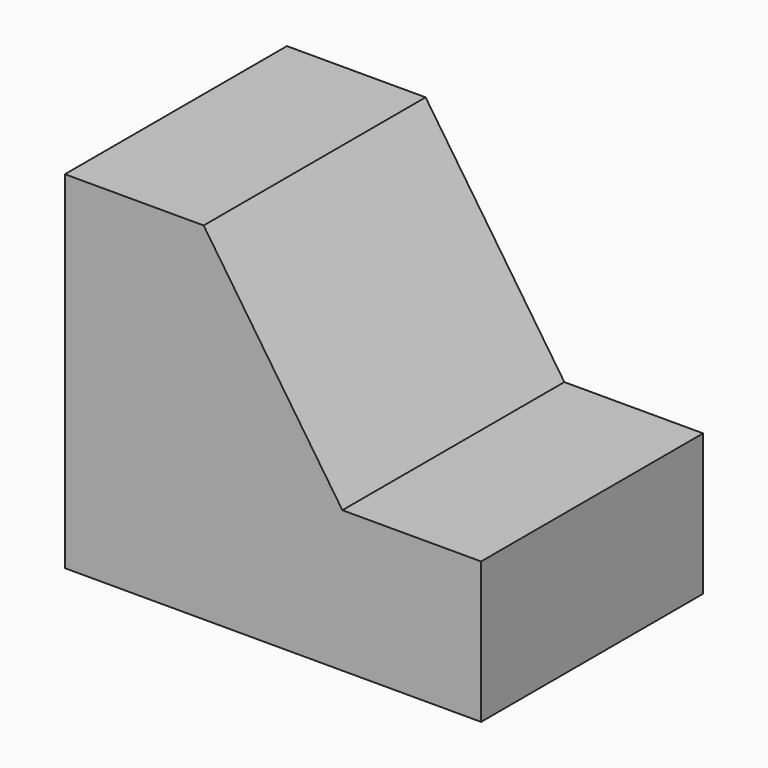
from build123d import *

# Parameters (mm, degrees)
F0_W     = 38.1
F0_H     = 31.75
F1_DEPTH = 25.4
F3_DEPTH = 25.4


with BuildPart() as f1:
    # F0 (on Front) → F1 (new body)
    with BuildSketch(Plane.XZ):
        with Locations((19.05, 15.875)):
            Rectangle(F0_W, F0_H)
    extrude(amount=-F1_DEPTH)

    # F2 (on face) → F3 (cut)
    with BuildSketch(Plane.XZ):
        Polygon((25.4, 12.93213), (38.1, 12.93213), (38.1, 31.75), (12.7, 31.75), align=None)
    extrude(amount=-F3_DEPTH, mode=Mode.SUBTRACT)


solid = f1.part
